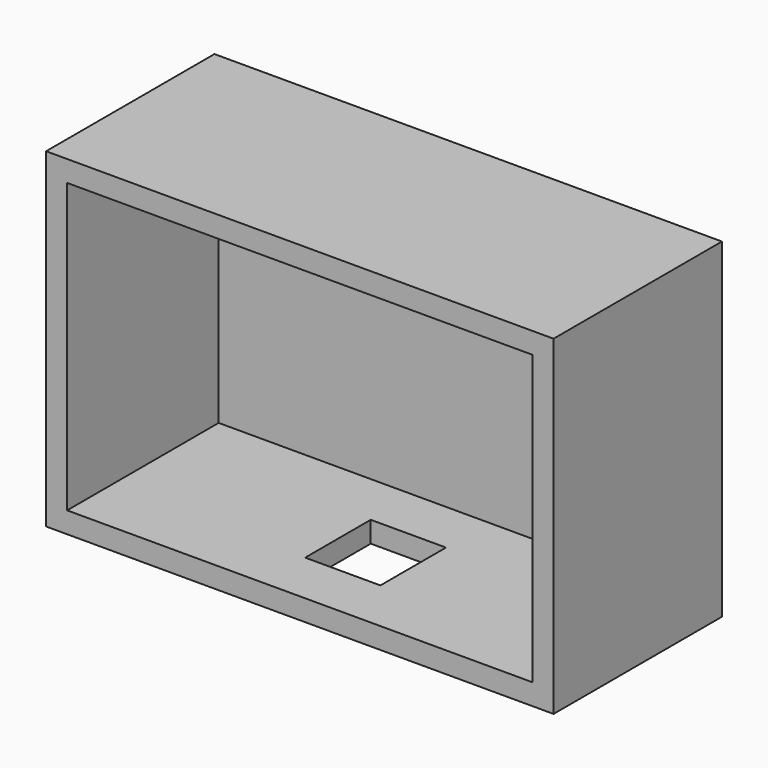
from build123d import *

# Parameters (mm, degrees)
F0_W     = 61.248694
F0_H     = 39.8717
F1_DEPTH = 25.4
F2_T     = -2.54
F3_W     = 9.080695
F3_H     = 9.89195
F4_DEPTH = 25.4


with BuildPart() as f1:
    # F0 (on Front) → F1 (new body)
    with BuildSketch(Plane.XZ):
        with Locations((30.624347, -19.93585)):
            Rectangle(F0_W, F0_H)
    extrude(amount=F1_DEPTH)

    # F2
    f2_openings = [f1.faces().sort_by_distance(p)[0] for p in [
        (30.624347, -25.4, -19.93585),
    ]]
    offset(amount=F2_T, openings=f2_openings)

    # F3 (on face) → F4 (cut)
    with BuildSketch(Plane(origin=(0, 0, -39.8717), x_dir=(1, 0, 0), z_dir=(0, 0, -1))):
        with Locations((30.624346, 13.972152)):
            Rectangle(F3_W, F3_H)
    extrude(amount=-F4_DEPTH, mode=Mode.SUBTRACT)


solid = f1.part
